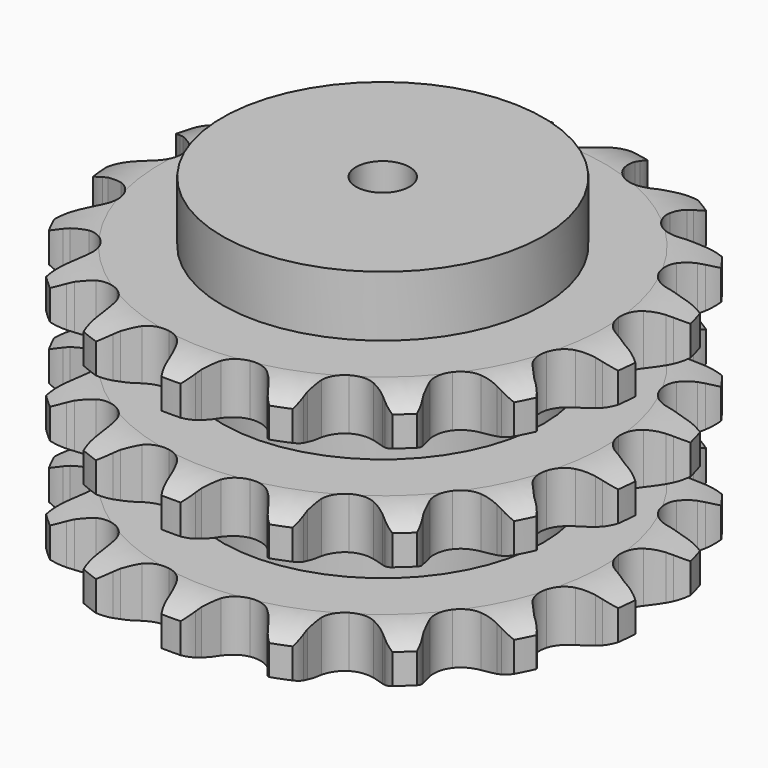
from build123d import *

# Parameters (mm, degrees)
PAD_DEPTH         = 146
SKETCH001_R       = 90
PAD001_DEPTH      = 180
SKETCH002_R       = 15
POCKET_DEPTH      = 0.001
POCKET_DEPTH_BACK = 180.001


with BuildPart() as part:
    # Sprocket → Pad (new body)
    with BuildSketch(Plane.XY):
        with BuildLine():
            ThreePointArc((-28.413483, 151.998709), (-22.240891, 147.128214), (-17.944285, 140.543247))
            Line((-17.944285, 140.543247), (-16.558606, 137.404985))
            ThreePointArc((-16.558606, 137.404985), (-14.303381, 133.072737), (-11.512255, 129.064741))
            ThreePointArc((-11.512255, 129.064741), (-6.389948, 124.975227), (0, 123.51553))
            ThreePointArc((0, 123.51553), (6.389948, 124.975227), (11.512255, 129.064741))
            ThreePointArc((11.512255, 129.064741), (14.303381, 133.072737), (16.558606, 137.404985))
            Line((16.558606, 137.404985), (17.944285, 140.543247))
            ThreePointArc((17.944285, 140.543247), (22.240891, 147.128214), (28.413483, 151.998709))
            ThreePointArc((28.413483, 151.998709), (32.409828, 145.22731), (34.03753, 137.534898))
            Line((34.03753, 137.534898), (34.195965, 134.107991))
            ThreePointArc((34.195965, 134.107991), (34.733912, 129.253609), (35.888704, 124.507993))
            ThreePointArc((35.888704, 124.507993), (39.18781, 118.844244), (44.618956, 115.174802))
            ThreePointArc((44.618956, 115.174802), (51.104709, 114.227613), (57.358421, 116.190581))
            Line((57.358421, 116.190581), (65.076846, 122.144674))
            ThreePointArc((65.076846, 122.144674), (66.262408, 123.384891), (67.502624, 124.570452))
            ThreePointArc((67.502624, 124.570452), (73.887854, 129.158637), (81.40305, 131.470441))
            ThreePointArc((81.40305, 131.470441), (82.68342, 123.712653), (81.422387, 115.951699))
            Line((81.422387, 115.951699), (80.332182, 112.69897))
            ThreePointArc((80.332182, 112.69897), (79.080197, 107.978065), (78.442695, 103.135751))
            ThreePointArc((78.442695, 103.135751), (79.473037, 96.662688), (83.211875, 91.279078))
            ThreePointArc((83.211875, 91.279078), (88.917495, 88.052927), (95.458013, 87.624238))
            Line((95.458013, 87.624238), (104.806098, 90.388048))
            ThreePointArc((104.806098, 90.388048), (106.359618, 91.116242), (107.94436, 91.773727))
            ThreePointArc((107.94436, 91.773727), (115.555853, 93.745471), (123.398685, 93.186361))
            ThreePointArc((123.398685, 93.186361), (121.790158, 85.489917), (117.8107, 78.708581))
            Line((117.8107, 78.708581), (115.619093, 76.069329))
            ThreePointArc((115.619093, 76.069329), (112.746264, 72.119485), (110.402565, 67.834454))
            ThreePointArc((110.402565, 67.834454), (109.02499, 61.426299), (110.566569, 55.055609))
            ThreePointArc((110.566569, 55.055609), (114.721481, 49.986205), (120.665472, 47.223757))
            Line((120.665472, 47.223757), (130.380705, 46.424016))
            ThreePointArc((130.380705, 46.424016), (132.092373, 46.541839), (133.807612, 46.582451))
            ThreePointArc((133.807612, 46.582451), (141.617394, 45.671459), (148.728643, 42.316948))
            ThreePointArc((148.728643, 42.316948), (144.448461, 35.721294), (138.288025, 30.835432))
            Line((138.288025, 30.835432), (135.291004, 29.166103))
            ThreePointArc((135.291004, 29.166103), (131.185323, 26.520768), (127.451957, 23.371738))
            ThreePointArc((127.451957, 23.371738), (123.852515, 17.893949), (122.988635, 11.396575))
            ThreePointArc((122.988635, 11.396575), (125.031695, 5.168569), (129.576391, 0.445446))
            Line((129.576391, 0.445446), (138.346675, -3.809838))
            ThreePointArc((138.346675, -3.809838), (139.985322, -4.318296), (141.599404, -4.900043))
            ThreePointArc((141.599404, -4.900043), (148.552722, -8.570736), (153.971974, -14.267605))
            ThreePointArc((153.971974, -14.267605), (147.598198, -18.871688), (140.088786, -21.202212))
            Line((140.088786, -21.202212), (136.691116, -21.676167))
            ThreePointArc((136.691116, -21.676167), (131.907077, -22.659725), (127.288256, -24.247461))
            ThreePointArc((127.288256, -24.247461), (121.95307, -28.055078), (118.800404, -33.801629))
            ThreePointArc((118.800404, -33.801629), (118.455686, -40.347111), (120.9873, -46.393025))
            Line((120.9873, -46.393025), (127.62816, -53.529151))
            ThreePointArc((127.62816, -53.529151), (128.972476, -54.595222), (130.267413, -55.720759))
            ThreePointArc((130.267413, -55.720759), (135.42518, -61.655406), (138.420537, -68.925238))
            ThreePointArc((138.420537, -68.925238), (130.813981, -70.915944), (122.96978, -70.37638))
            Line((122.96978, -70.37638), (119.630335, -69.59095))
            ThreePointArc((119.630335, -69.59095), (114.81405, -68.779896), (109.933571, -68.591905))
            ThreePointArc((109.933571, -68.591905), (103.583188, -70.215111), (98.567521, -74.434737))
            ThreePointArc((98.567521, -74.434737), (95.88158, -80.413689), (96.058203, -86.965861))
            Line((96.058203, -86.965861), (99.672755, -96.019056))
            ThreePointArc((99.672755, -96.019056), (100.541183, -97.498761), (101.342085, -99.016077))
            ThreePointArc((101.342085, -99.016077), (104.007718, -106.413172), (104.174639, -114.274135))
            ThreePointArc((104.174639, -114.274135), (96.36261, -113.382609), (89.243024, -110.045829))
            Line((89.243024, -110.045829), (86.412814, -108.10709))
            ThreePointArc((86.412814, -108.10709), (82.214748, -105.610962), (77.731748, -103.672633))
            ThreePointArc((77.731748, -103.672633), (71.223823, -102.892205), (65.022548, -105.01502))
            ThreePointArc((65.022548, -105.01502), (60.358135, -109.619954), (58.155914, -115.793476))
            Line((58.155914, -115.793476), (58.255993, -125.541056))
            ThreePointArc((58.255993, -125.541056), (58.531247, -127.234552), (58.729947, -128.938726))
            ThreePointArc((58.729947, -128.938726), (58.543437, -136.799249), (55.859379, -144.189678))
            ThreePointArc((55.859379, -144.189678), (48.896936, -140.536324), (43.463503, -134.852978))
            Line((43.463503, -134.852978), (41.524764, -132.022768))
            ThreePointArc((41.524764, -132.022768), (38.51189, -128.178682), (35.031821, -124.751797))
            ThreePointArc((35.031821, -124.751797), (29.245285, -121.673136), (22.695919, -121.412444))
            ThreePointArc((22.695919, -121.412444), (16.68299, -124.021436), (12.399347, -128.98254))
            Line((12.399347, -128.98254), (8.971435, -138.10804))
            ThreePointArc((8.971435, -138.10804), (8.616341, -139.786611), (8.186005, -141.447485))
            ThreePointArc((8.186005, -141.447485), (5.172541, -148.70983), (0, -154.631605))
            ThreePointArc((0, -154.631605), (-5.172541, -148.70983), (-8.186005, -141.447485))
            Line((-8.186005, -141.447485), (-8.971435, -138.10804))
            ThreePointArc((-8.971435, -138.10804), (-10.392213, -133.43516), (-12.399347, -128.98254))
            ThreePointArc((-12.399347, -128.98254), (-16.68299, -124.021436), (-22.695919, -121.412444))
            ThreePointArc((-22.695919, -121.412444), (-29.245285, -121.673136), (-35.031821, -124.751797))
            Line((-35.031821, -124.751797), (-41.524764, -132.022768))
            ThreePointArc((-41.524764, -132.022768), (-42.46225, -133.459714), (-43.463503, -134.852978))
            ThreePointArc((-43.463503, -134.852978), (-48.896936, -140.536324), (-55.859379, -144.189678))
            ThreePointArc((-55.859379, -144.189678), (-58.543437, -136.799249), (-58.729947, -128.938726))
            Line((-58.729947, -128.938726), (-58.255993, -125.541056))
            ThreePointArc((-58.255993, -125.541056), (-57.892789, -120.670481), (-58.155914, -115.793476))
            ThreePointArc((-58.155914, -115.793476), (-60.358135, -109.619954), (-65.022548, -105.01502))
            ThreePointArc((-65.022548, -105.01502), (-71.223823, -102.892205), (-77.731748, -103.672633))
            Line((-77.731748, -103.672633), (-86.412814, -108.10709))
            ThreePointArc((-86.412814, -108.10709), (-87.806078, -109.108343), (-89.243024, -110.045829))
            ThreePointArc((-89.243024, -110.045829), (-96.36261, -113.382609), (-104.174639, -114.274135))
            ThreePointArc((-104.174639, -114.274135), (-104.007718, -106.413172), (-101.342085, -99.016077))
            Line((-101.342085, -99.016077), (-99.672755, -96.019056))
            ThreePointArc((-99.672755, -96.019056), (-97.574624, -91.608585), (-96.058203, -86.965861))
            ThreePointArc((-96.058203, -86.965861), (-95.88158, -80.413689), (-98.567521, -74.434737))
            ThreePointArc((-98.567521, -74.434737), (-103.583188, -70.215111), (-109.933571, -68.591905))
            Line((-109.933571, -68.591905), (-119.630335, -69.59095))
            ThreePointArc((-119.630335, -69.59095), (-121.291209, -70.021286), (-122.96978, -70.37638))
            ThreePointArc((-122.96978, -70.37638), (-130.813981, -70.915944), (-138.420537, -68.925238))
            ThreePointArc((-138.420537, -68.925238), (-135.42518, -61.655406), (-130.267413, -55.720759))
            Line((-130.267413, -55.720759), (-127.62816, -53.529151))
            ThreePointArc((-127.62816, -53.529151), (-124.078465, -50.174442), (-120.9873, -46.393025))
            ThreePointArc((-120.9873, -46.393025), (-118.455686, -40.347111), (-118.800404, -33.801629))
            ThreePointArc((-118.800404, -33.801629), (-121.95307, -28.055078), (-127.288256, -24.247461))
            Line((-127.288256, -24.247461), (-136.691116, -21.676167))
            ThreePointArc((-136.691116, -21.676167), (-138.39529, -21.477466), (-140.088786, -21.202212))
            ThreePointArc((-140.088786, -21.202212), (-147.598198, -18.871688), (-153.971974, -14.267605))
            ThreePointArc((-153.971974, -14.267605), (-148.552722, -8.570736), (-141.599404, -4.900043))
            Line((-141.599404, -4.900043), (-138.346675, -3.809838))
            ThreePointArc((-138.346675, -3.809838), (-133.824822, -1.963962), (-129.576391, 0.445446))
            ThreePointArc((-129.576391, 0.445446), (-125.031695, 5.168569), (-122.988635, 11.396575))
            ThreePointArc((-122.988635, 11.396575), (-123.852515, 17.893949), (-127.451957, 23.371738))
            Line((-127.451957, 23.371738), (-135.291004, 29.166103))
            ThreePointArc((-135.291004, 29.166103), (-136.80832, 29.967005), (-138.288025, 30.835432))
            ThreePointArc((-138.288025, 30.835432), (-144.448461, 35.721294), (-148.728643, 42.316948))
            ThreePointArc((-148.728643, 42.316948), (-141.617394, 45.671459), (-133.807612, 46.582451))
            Line((-133.807612, 46.582451), (-130.380705, 46.424016))
            ThreePointArc((-130.380705, 46.424016), (-125.497395, 46.511762), (-120.665472, 47.223757))
            ThreePointArc((-120.665472, 47.223757), (-114.721481, 49.986205), (-110.566569, 55.055609))
            ThreePointArc((-110.566569, 55.055609), (-109.02499, 61.426299), (-110.402565, 67.834454))
            Line((-110.402565, 67.834454), (-115.619093, 76.069329))
            ThreePointArc((-115.619093, 76.069329), (-116.744629, 77.364265), (-117.8107, 78.708581))
            ThreePointArc((-117.8107, 78.708581), (-121.790158, 85.489917), (-123.398685, 93.186361))
            ThreePointArc((-123.398685, 93.186361), (-115.555853, 93.745471), (-107.94436, 91.773727))
            Line((-107.94436, 91.773727), (-104.806098, 90.388048))
            ThreePointArc((-104.806098, 90.388048), (-100.220849, 88.705814), (-95.458013, 87.624238))
            ThreePointArc((-95.458013, 87.624238), (-88.917495, 88.052927), (-83.211875, 91.279078))
            ThreePointArc((-83.211875, 91.279078), (-79.473037, 96.662688), (-78.442695, 103.135751))
            Line((-78.442695, 103.135751), (-80.332182, 112.69897))
            ThreePointArc((-80.332182, 112.69897), (-80.913928, 114.313053), (-81.422387, 115.951699))
            ThreePointArc((-81.422387, 115.951699), (-82.68342, 123.712653), (-81.40305, 131.470441))
            ThreePointArc((-81.40305, 131.470441), (-73.887854, 129.158637), (-67.502624, 124.570452))
            Line((-67.502624, 124.570452), (-65.076846, 122.144674))
            ThreePointArc((-65.076846, 122.144674), (-61.408923, 118.919655), (-57.358421, 116.190581))
            ThreePointArc((-57.358421, 116.190581), (-51.104709, 114.227613), (-44.618956, 115.174802))
            ThreePointArc((-44.618956, 115.174802), (-39.18781, 118.844244), (-35.888704, 124.507993))
            Line((-35.888704, 124.507993), (-34.195965, 134.107991))
            ThreePointArc((-34.195965, 134.107991), (-34.155353, 135.82323), (-34.03753, 137.534898))
            ThreePointArc((-34.03753, 137.534898), (-32.409828, 145.22731), (-28.413483, 151.998709))
        make_face()
    extrude(amount=PAD_DEPTH)

    # Sketch → Groove (revolve, cut)
    with BuildSketch(Plane.XZ):
        with BuildLine():
            ThreePointArc((124.45, 0), (136.819317, 1.522732), (148.45, 6))
            Line((148.45, 6), (148.45, 22.8))
            ThreePointArc((148.45, 22.8), (136.819317, 27.277268), (124.45, 28.8))
            Line((90, 28.8), (124.45, 28.8))
            Line((90, 28.8), (90, 58.6))
            Line((90, 58.6), (124.45, 58.6))
            ThreePointArc((124.45, 58.6), (136.819317, 60.122732), (148.45, 64.6))
            Line((148.45, 81.4), (148.45, 64.6))
            ThreePointArc((148.45, 81.4), (136.819317, 85.877268), (124.45, 87.4))
            Line((90, 87.4), (124.45, 87.4))
            Line((90, 117.2), (90, 87.4))
            Line((124.45, 117.2), (90, 117.2))
            ThreePointArc((124.45, 117.2), (136.819317, 118.722732), (148.45, 123.2))
            Line((148.45, 123.2), (148.45, 140))
            ThreePointArc((148.45, 140), (136.819317, 144.477268), (124.45, 146))
            Line((124.45, 146), (158.45, 146))
            Line((158.45, 146), (158.45, 0))
            Line((124.45, 0), (158.45, 0))
        make_face()
    revolve(axis=Axis((0, 0, 0), (0, 0, 1)), mode=Mode.SUBTRACT)

    # Sketch001 → Pad001 (join)
    with BuildSketch(Plane.XY):
        Circle(SKETCH001_R)
    extrude(amount=PAD001_DEPTH)

    # Sketch002 → Pocket (cut, two sides)
    with BuildSketch(Plane.XY) as pocket_sk:
        Circle(SKETCH002_R)
    extrude(amount=-POCKET_DEPTH, mode=Mode.SUBTRACT)
    extrude(pocket_sk.sketch, amount=POCKET_DEPTH_BACK, mode=Mode.SUBTRACT)


solid = part.part
